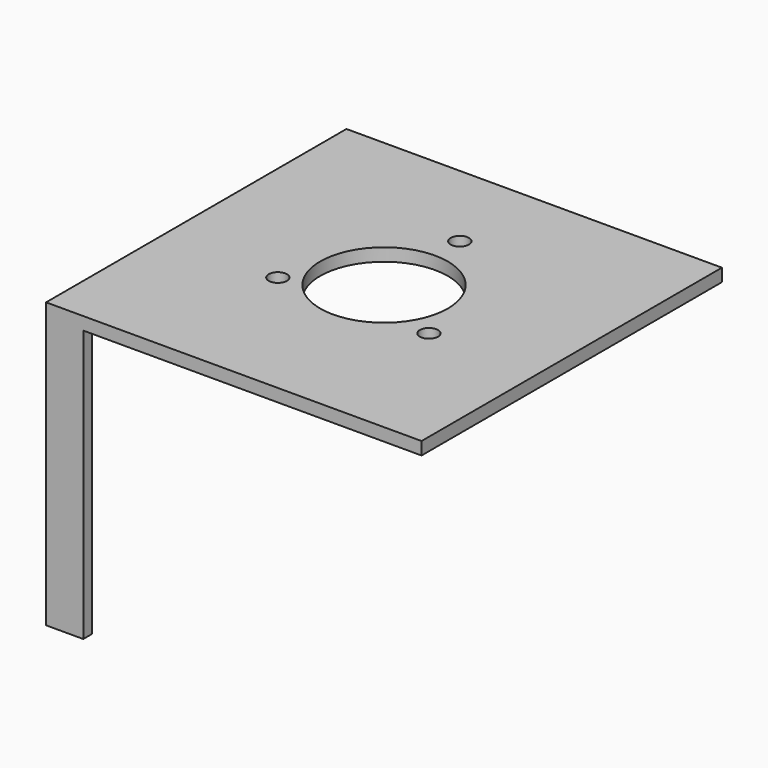
from build123d import *

# Parameters (mm, degrees)
F0_W     = 103
F0_H     = 103
F0_R     = 2.5
F0_R_2   = 17.5
F1_DEPTH = 3.5
F2_W     = 10.198153
F2_H     = 74.5
F3_DEPTH = 3


with BuildPart() as f1:
    # F0 (on Top) → F1 (new body)
    with BuildSketch(Plane.XY):
        Rectangle(F0_W, F0_H)
        with Locations((-19.918584, -11.5)):
            Circle(F0_R, mode=Mode.SUBTRACT)
        Circle(F0_R_2, mode=Mode.SUBTRACT)
        with Locations((21.531213, -11.5)):
            Circle(F0_R, mode=Mode.SUBTRACT)
        with Locations((0, 26)):
            Circle(F0_R, mode=Mode.SUBTRACT)
    extrude(amount=F1_DEPTH)

    # F2 (on face) → F3 (join)
    with BuildSketch(Plane.XZ.offset(51.5)):
        with Locations((-46.400923, -37.25)):
            Rectangle(F2_W, F2_H)
    extrude(amount=-F3_DEPTH)


solid = f1.part
